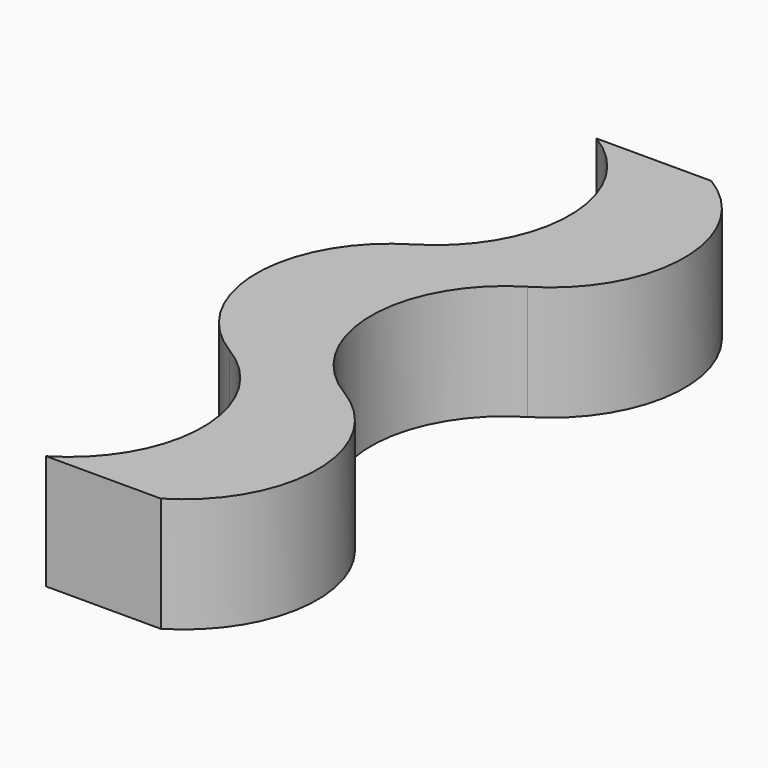
from build123d import *

# Parameters (mm, degrees)
F1_DEPTH = 5


with BuildPart() as f1:
    # F0 (on Top) → F1 (new body)
    with BuildSketch(Plane.XY):
        with BuildLine():
            ThreePointArc((0, -56.284111), (2.830952, -61.284111), (0, -66.284111))
            Line((0, -66.284111), (5, -66.284111))
            ThreePointArc((5, -66.284111), (7.830952, -61.284111), (5, -56.284111))
            ThreePointArc((5, -56.284111), (2.169048, -51.284111), (5, -46.284111))
            ThreePointArc((5, -46.284111), (7.830952, -41.284111), (5, -36.284111))
            Line((5, -36.284111), (0, -36.284111))
            ThreePointArc((0, -36.284111), (2.830952, -41.284111), (0, -46.284111))
            ThreePointArc((0, -46.284111), (-2.830952, -51.284111), (0, -56.284111))
        make_face()
    extrude(amount=F1_DEPTH)


solid = f1.part
